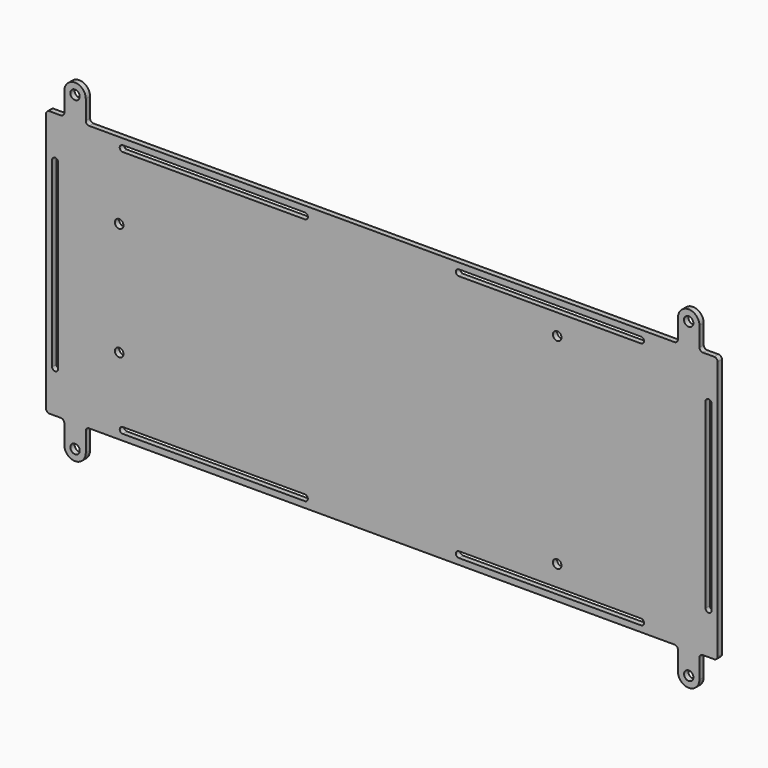
from build123d import *

# Parameters (mm, degrees)
SKETCH_R   = 1.627
SKETCH_R_2 = 1.5
PAD_DEPTH  = 1.8542


with BuildPart() as part:
    # Sketch (on Face85 of Binder) → Pad (new body)
    with BuildSketch(Plane(origin=(0, 127.2271, 0), x_dir=(-1, 0, 0), z_dir=(0, 1, 0))):
        with BuildLine():
            Line((-330.3246, -11.1254), (-330.3246, -101.3746))
            ThreePointArc((-330.3246, -101.3746), (-329.973128, -102.223128), (-329.1246, -102.5746))
            Line((-329.1246, -102.5746), (-325.1852, -102.5746))
            ThreePointArc((-323.9852, -103.7746), (-324.336672, -102.926072), (-325.1852, -102.5746))
            Line((-323.9852, -110.4919), (-323.9852, -103.7746))
            ThreePointArc((-323.9852, -110.4919), (-320.25, -114.2271), (-316.5148, -110.4919))
            Line((-316.5148, -110.4919), (-316.5148, -103.7746))
            ThreePointArc((-315.3148, -102.5746), (-316.163328, -102.926072), (-316.5148, -103.7746))
            Line((-315.3148, -102.5746), (-111.6852, -102.5746))
            ThreePointArc((-110.4852, -103.7746), (-110.836672, -102.926072), (-111.6852, -102.5746))
            Line((-110.4852, -110.4919), (-110.4852, -103.7746))
            ThreePointArc((-110.4852, -110.4919), (-106.75, -114.2271), (-103.0148, -110.4919))
            Line((-103.0148, -110.4919), (-103.0148, -103.7746))
            ThreePointArc((-101.8148, -102.5746), (-102.663328, -102.926072), (-103.0148, -103.7746))
            Line((-101.8148, -102.5746), (-97.8754, -102.5746))
            ThreePointArc((-97.8754, -102.5746), (-97.026872, -102.223128), (-96.6754, -101.3746))
            Line((-96.6754, -101.3746), (-96.6754, -11.1254))
            ThreePointArc((-96.6754, -11.1254), (-97.026872, -10.276872), (-97.8754, -9.9254))
            Line((-97.8754, -9.9254), (-101.8148, -9.9254))
            ThreePointArc((-103.0148, -8.7254), (-102.663328, -9.573928), (-101.8148, -9.9254))
            Line((-103.0148, -2.0081), (-103.0148, -8.7254))
            ThreePointArc((-103.0148, -2.0081), (-106.75, 1.7271), (-110.4852, -2.0081))
            Line((-110.4852, -2.0081), (-110.4852, -8.7254))
            ThreePointArc((-111.6852, -9.9254), (-110.836672, -9.573928), (-110.4852, -8.7254))
            Line((-111.6852, -9.9254), (-315.3148, -9.9254))
            ThreePointArc((-316.5148, -8.7254), (-316.163328, -9.573928), (-315.3148, -9.9254))
            Line((-316.5148, -2.0081), (-316.5148, -8.7254))
            ThreePointArc((-316.5148, -2.0081), (-320.25, 1.7271), (-323.9852, -2.0081))
            Line((-323.9852, -2.0081), (-323.9852, -8.7254))
            ThreePointArc((-325.1852, -9.9254), (-324.336672, -9.573928), (-323.9852, -8.7254))
            Line((-325.1852, -9.9254), (-329.1246, -9.9254))
            ThreePointArc((-329.1246, -9.9254), (-329.973128, -10.276872), (-330.3246, -11.1254))
        make_face()
        with Locations((-320.25, -2.0081)):
            Circle(SKETCH_R, mode=Mode.SUBTRACT)
        with Locations((-106.75, -2.0081)):
            Circle(SKETCH_R, mode=Mode.SUBTRACT)
        with Locations((-122.1, -36.55)):
            Circle(SKETCH_R_2, mode=Mode.SUBTRACT)
        with Locations((-122.1, -75.95)):
            Circle(SKETCH_R_2, mode=Mode.SUBTRACT)
        with Locations((-106.75, -110.4919)):
            Circle(SKETCH_R, mode=Mode.SUBTRACT)
        with Locations((-320.25, -110.4919)):
            Circle(SKETCH_R, mode=Mode.SUBTRACT)
        with Locations((-274.5, -91.15)):
            Circle(SKETCH_R_2, mode=Mode.SUBTRACT)
        with Locations((-274.5, -21.35)):
            Circle(SKETCH_R_2, mode=Mode.SUBTRACT)
        with BuildLine():
            ThreePointArc((-326.1082, -24.579), (-327.1623, -23.5249), (-328.2164, -24.579))
            Line((-328.2164, -24.579), (-328.2164, -87.921))
            ThreePointArc((-328.2164, -87.921), (-327.1623, -88.9751), (-326.1082, -87.921))
            Line((-326.1082, -24.579), (-326.1082, -87.921))
        make_face(mode=Mode.SUBTRACT)
        with BuildLine():
            ThreePointArc((-98.7836, -24.579), (-99.8377, -23.5249), (-100.8918, -24.579))
            Line((-100.8918, -24.579), (-100.8918, -87.921))
            ThreePointArc((-100.8918, -87.921), (-99.8377, -88.9751), (-98.7836, -87.921))
            Line((-98.7836, -24.579), (-98.7836, -87.921))
        make_face(mode=Mode.SUBTRACT)
        with BuildLine():
            ThreePointArc((-303.6468, -12.0336), (-304.7009, -13.0877), (-303.6468, -14.1418))
            Line((-303.6468, -14.1418), (-240.3048, -14.1418))
            ThreePointArc((-240.3048, -14.1418), (-239.2507, -13.0877), (-240.3048, -12.0336))
            Line((-303.6468, -12.0336), (-240.3048, -12.0336))
        make_face(mode=Mode.SUBTRACT)
        with BuildLine():
            ThreePointArc((-186.6952, -12.0336), (-187.7493, -13.0877), (-186.6952, -14.1418))
            Line((-186.6952, -14.1418), (-123.3532, -14.1418))
            ThreePointArc((-123.3532, -14.1418), (-122.2991, -13.0877), (-123.3532, -12.0336))
            Line((-186.6952, -12.0336), (-123.3532, -12.0336))
        make_face(mode=Mode.SUBTRACT)
        with BuildLine():
            ThreePointArc((-303.6468, -98.3582), (-304.7009, -99.4123), (-303.6468, -100.4664))
            Line((-303.6468, -100.4664), (-240.3048, -100.4664))
            ThreePointArc((-240.3048, -100.4664), (-239.2507, -99.4123), (-240.3048, -98.3582))
            Line((-303.6468, -98.3582), (-240.3048, -98.3582))
        make_face(mode=Mode.SUBTRACT)
        with BuildLine():
            ThreePointArc((-186.6952, -98.3582), (-187.7493, -99.4123), (-186.6952, -100.4664))
            Line((-186.6952, -100.4664), (-123.3532, -100.4664))
            ThreePointArc((-123.3532, -100.4664), (-122.2991, -99.4123), (-123.3532, -98.3582))
            Line((-186.6952, -98.3582), (-123.3532, -98.3582))
        make_face(mode=Mode.SUBTRACT)
    extrude(amount=PAD_DEPTH)


solid = part.part
